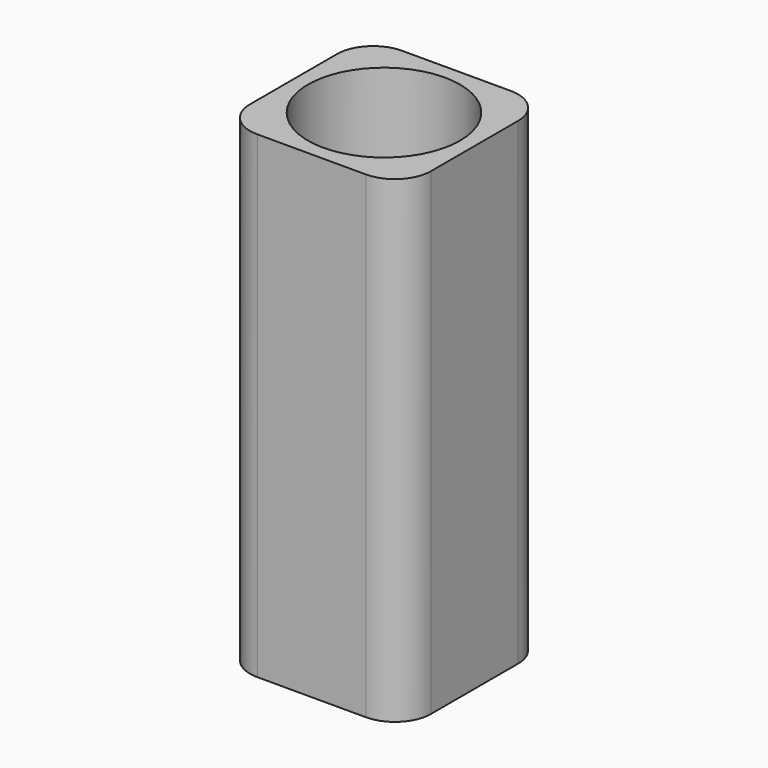
from build123d import *

# Parameters (mm, degrees)
F0_W     = 127
F0_H     = 127
F1_DEPTH = 335.28
F2_R     = 53.34
F3_DEPTH = 309.88
F4_R     = 25.4


with BuildPart() as f1:
    # F0 (on Top) → F1 (new body)
    with BuildSketch(Plane.XY):
        with Locations((-83.174668, -4.380767)):
            Rectangle(F0_W, F0_H)
    extrude(amount=F1_DEPTH)

    # F2 (on face) → F3 (cut)
    with BuildSketch(Plane.XY.offset(335.28)):
        with Locations((-83.174668, -4.380767)):
            Circle(F2_R)
    extrude(amount=-F3_DEPTH, mode=Mode.SUBTRACT)

    # F4
    f4_edges = [f1.edges().sort_by_distance(p)[0] for p in [
        (-19.674668, 59.119233, 167.64),
        (-146.674668, 59.119233, 167.64),
        (-146.674668, -67.880767, 167.64),
        (-19.674668, -67.880767, 167.64),
    ]]
    fillet(f4_edges, radius=F4_R)


solid = f1.part
